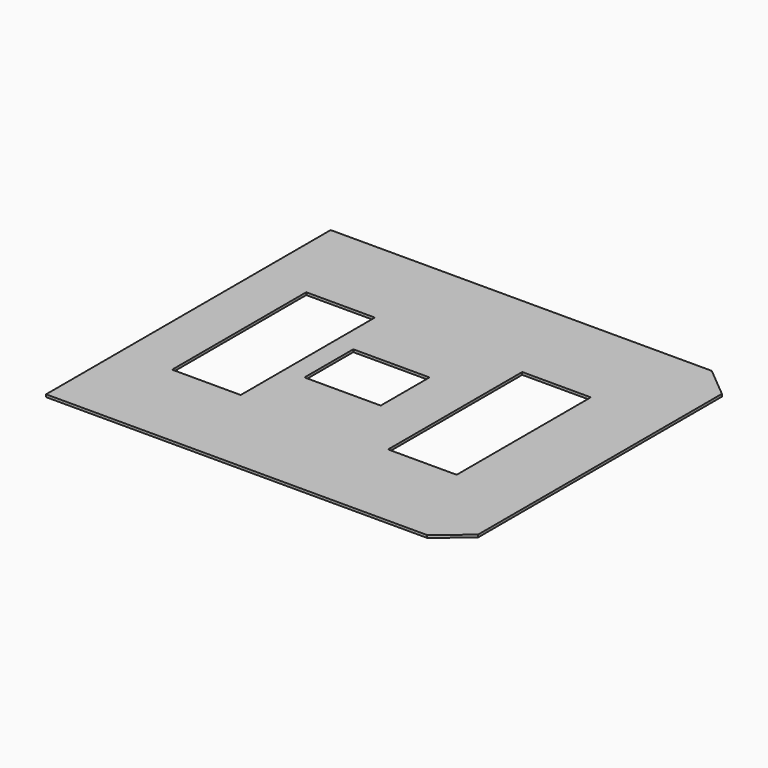
from build123d import *

# Parameters (mm, degrees)
F4_W     = 135
F4_H     = 330
F4_W_2   = 150
F4_H_2   = 120
F5_DEPTH = 5


with BuildPart() as f5:
    # F4 (on Top) → F5 (new body)
    with BuildSketch(Plane.XY):
        Polygon((295.206122, 235), (295.206122, 300), (235.206122, 350), (-514.793878, 350), (-514.793878, -350), (235.206122, -350), (295.206122, -300), (295.206122, -235), align=None)
        with Locations((-347.293878, 0)):
            Rectangle(F4_W, F4_H, mode=Mode.SUBTRACT)
        with Locations((-164.793878, 1.896139)):
            Rectangle(F4_W_2, F4_H_2, mode=Mode.SUBTRACT)
        with Locations((77.706122, 0)):
            Rectangle(F4_W, F4_H, mode=Mode.SUBTRACT)
    extrude(amount=F5_DEPTH)


solid = f5.part
